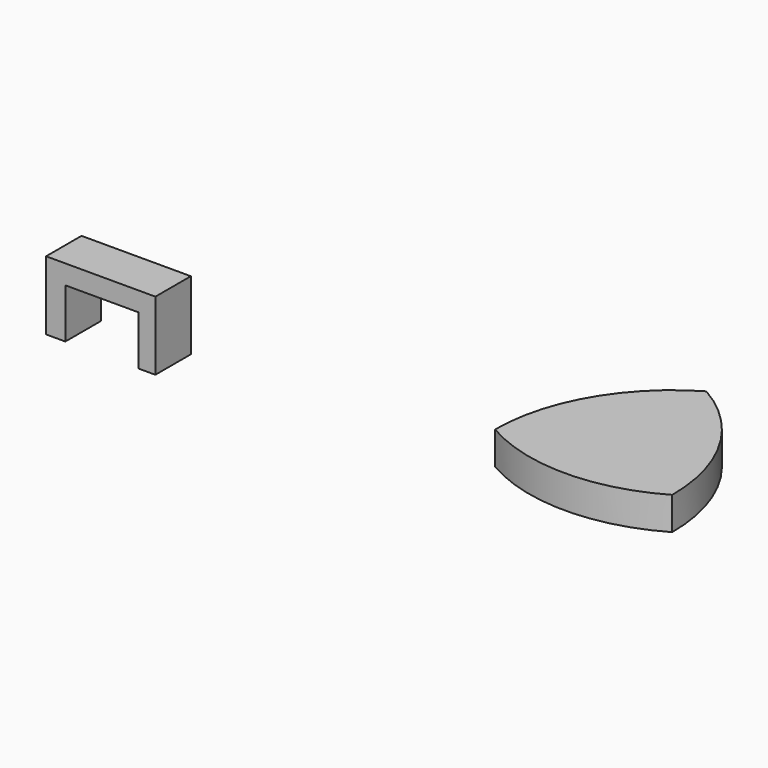
from build123d import *

# Parameters (mm, degrees)
F1_DEPTH = 4.7067850828
F2_W     = 2.7653202415
F2_H     = 7.0976610295
F2_W_2   = 2.3966133595
F3_DEPTH = 6.35


with BuildPart() as f1:
    # F0 (on Top) → F1 (new body)
    with BuildSketch(Plane.XY):
        with BuildLine():
            ThreePointArc((0, 21.9970452561), (-9.2970452561, 12.7), (-12.7, 0))
            ThreePointArc((-12.7, 0), (0, -3.4029547439), (12.7, 0))
            ThreePointArc((12.7, 0), (9.2970452561, 12.7), (0, 21.9970452561))
        make_face()
    extrude(amount=F1_DEPTH)


with BuildPart() as f3:
    # F2 (on Front) → F3 (new body)
    with BuildSketch(Plane.XZ):
        with Locations((-70.6079043448, 3.5488305148)):
            Rectangle(F2_W, F2_H)
        Polygon((-71.9905644655, 9.8629835993), (-71.9905644655, 7.0976610295), (-69.2252442241, 7.0976610295), (-58.7170161307, 7.0976610295), (-56.3204027712, 7.0976610295), (-56.3204027712, 9.8629835993), align=None)
        with Locations((-57.518709451, 3.5488305148)):
            Rectangle(F2_W_2, F2_H)
    extrude(amount=F3_DEPTH)


solid = Compound([f1.part, f3.part])
